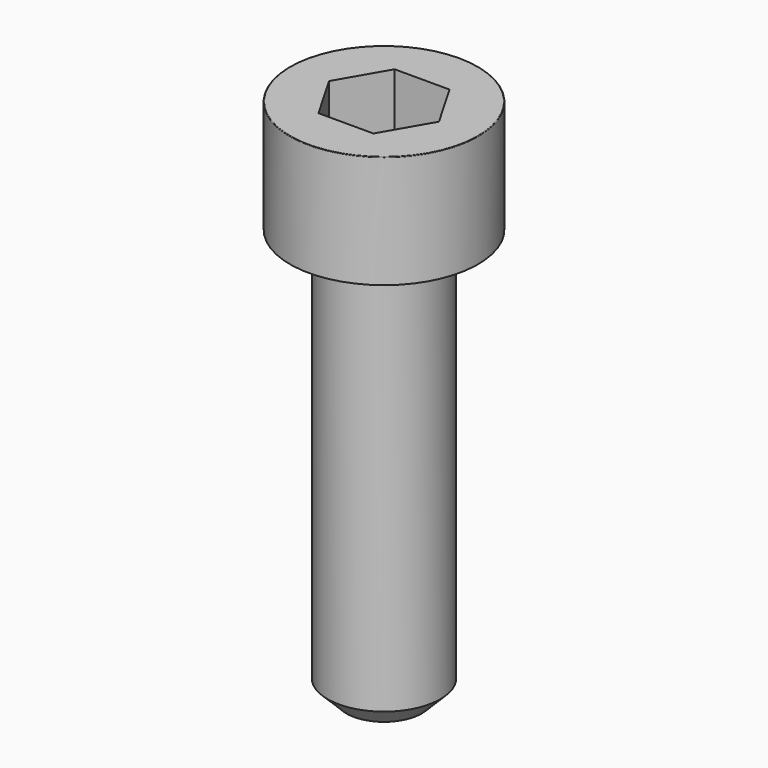
from build123d import *

# Parameters (mm, degrees)
POCKET_DEPTH = 5.06


with BuildPart() as part:
    # Sketch → Revolve (revolve)
    with BuildSketch(Plane.YZ):
        with BuildLine():
            Line((2.999, 0), (5, 0))
            Line((5, 0), (5, 5.97229))
            ThreePointArc((5, 5.97229), (4.991884, 5.991884), (4.97229, 6))
            Line((4.97229, 6), (0, 6))
            Line((0, -22), (0, 6))
            Line((2, -22), (0, -22))
            Line((3, -21), (2, -22))
            Line((3, -0.2), (3, -21))
            Line((2.999, 0), (3, -0.2))
        make_face()
    revolve(axis=Axis((0, 0, 0), (0, 0, 1)))

    # Sketch001 → Pocket (cut)
    with BuildSketch(Plane.XY.offset(6)):
        Polygon((2.921392, 0), (1.460696, 2.53), (-1.460696, 2.53), (-2.921392, 0), (-1.460696, -2.53), (1.460696, -2.53), align=None)
    extrude(amount=-POCKET_DEPTH, mode=Mode.SUBTRACT)


solid = part.part
